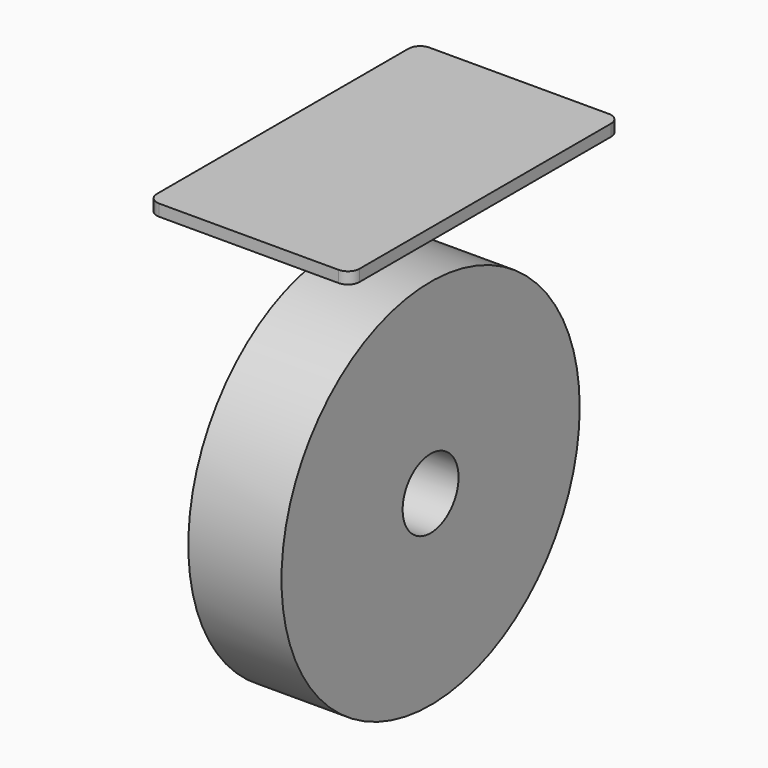
from build123d import *

# Parameters (mm, degrees)
F0_R     = 50.8
F0_R_2   = 9.525
F1_DEPTH = 12.7
F4_DEPTH = 3.175


with BuildPart() as f1:
    # F0 (on Right) → F1 (new body, symmetric)
    with BuildSketch(Plane.YZ):
        Circle(F0_R)
        Circle(F0_R_2, mode=Mode.SUBTRACT)
    extrude(amount=F1_DEPTH, both=True)


with BuildPart() as f4:
    # F3 (on offset) → F4 (new body)
    with BuildSketch(Plane.XY.offset(76.2)):
        with BuildLine():
            ThreePointArc((27.6225, 42.8625), (26.692564, 45.107564), (24.4475, 46.0375))
            Line((24.4475, 46.0375), (-24.4475, 46.0375))
            ThreePointArc((-24.4475, 46.0375), (-26.692564, 45.107564), (-27.6225, 42.8625))
            Line((-27.6225, 42.8625), (-27.6225, -42.8625))
            ThreePointArc((-27.6225, -42.8625), (-26.692564, -45.107564), (-24.4475, -46.0375))
            Line((-24.4475, -46.0375), (24.4475, -46.0375))
            ThreePointArc((24.4475, -46.0375), (26.692564, -45.107564), (27.6225, -42.8625))
            Line((27.6225, -42.8625), (27.6225, 42.8625))
        make_face()
    extrude(amount=-F4_DEPTH)


solid = Compound([f1.part, f4.part])
